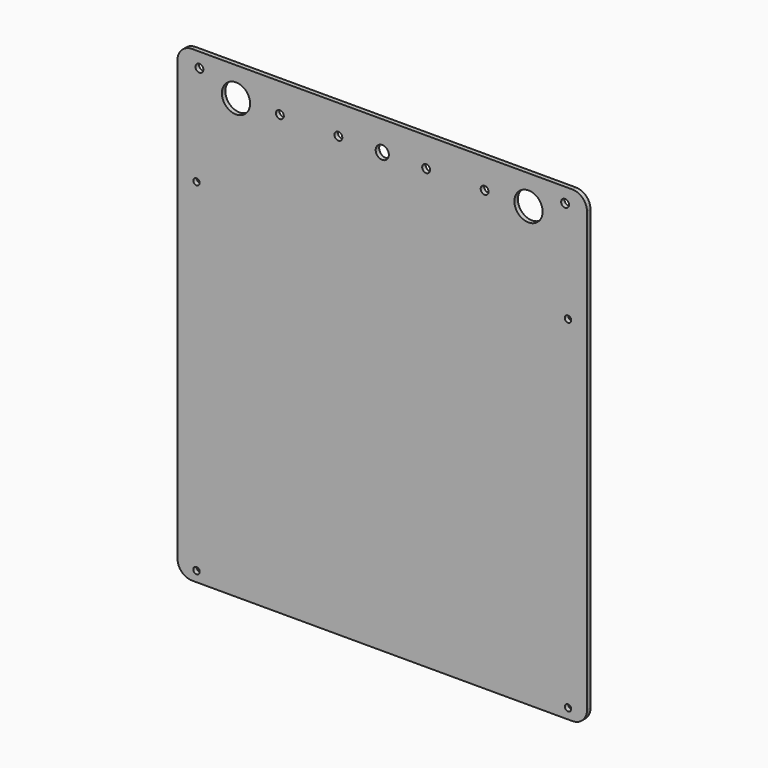
from build123d import *

# Parameters (mm, degrees)
F0_W     = 280
F0_H     = 320
F0_R     = 2.2
F0_R_2   = 2.7
F0_R_3   = 9.65
F0_R_4   = 4.5
F1_DEPTH = 3
F2_R     = 10


with BuildPart() as f1:
    # F0 (on Front) → F1 (new body)
    with BuildSketch(Plane.XZ):
        with Locations((15.796936, -91.26044)):
            Rectangle(F0_W, F0_H)
        with Locations((-111.197922, -244.264722)):
            Circle(F0_R, mode=Mode.SUBTRACT)
        with Locations((142.796936, -244.26044)):
            Circle(F0_R, mode=Mode.SUBTRACT)
        with Locations((-111.203064, -10.26044)):
            Circle(F0_R, mode=Mode.SUBTRACT)
        with Locations((-109.203064, 58.73956)):
            Circle(F0_R_2, mode=Mode.SUBTRACT)
        with Locations((-84.203064, 48.73956)):
            Circle(F0_R_3, mode=Mode.SUBTRACT)
        with Locations((-54.203064, 48.73956)):
            Circle(F0_R_2, mode=Mode.SUBTRACT)
        with Locations((-14.203064, 48.73956)):
            Circle(F0_R_2, mode=Mode.SUBTRACT)
        with Locations((15.796936, 48.73956)):
            Circle(F0_R_4, mode=Mode.SUBTRACT)
        with Locations((45.796936, 48.73956)):
            Circle(F0_R_2, mode=Mode.SUBTRACT)
        with Locations((85.796936, 48.73956)):
            Circle(F0_R_2, mode=Mode.SUBTRACT)
        with Locations((142.796936, -10.26044)):
            Circle(F0_R, mode=Mode.SUBTRACT)
        with Locations((115.796936, 48.73956)):
            Circle(F0_R_3, mode=Mode.SUBTRACT)
        with Locations((140.796936, 58.73956)):
            Circle(F0_R_2, mode=Mode.SUBTRACT)
    extrude(amount=F1_DEPTH)

    # F2
    f2_edges = [f1.edges().sort_by_distance(p)[0] for p in [
        (-124.203064, -1.5, 68.73956),
        (155.796936, -1.5, 68.73956),
        (155.796936, -1.5, -251.26044),
        (-124.203064, -1.5, -251.26044),
    ]]
    fillet(f2_edges, radius=F2_R)


solid = f1.part
